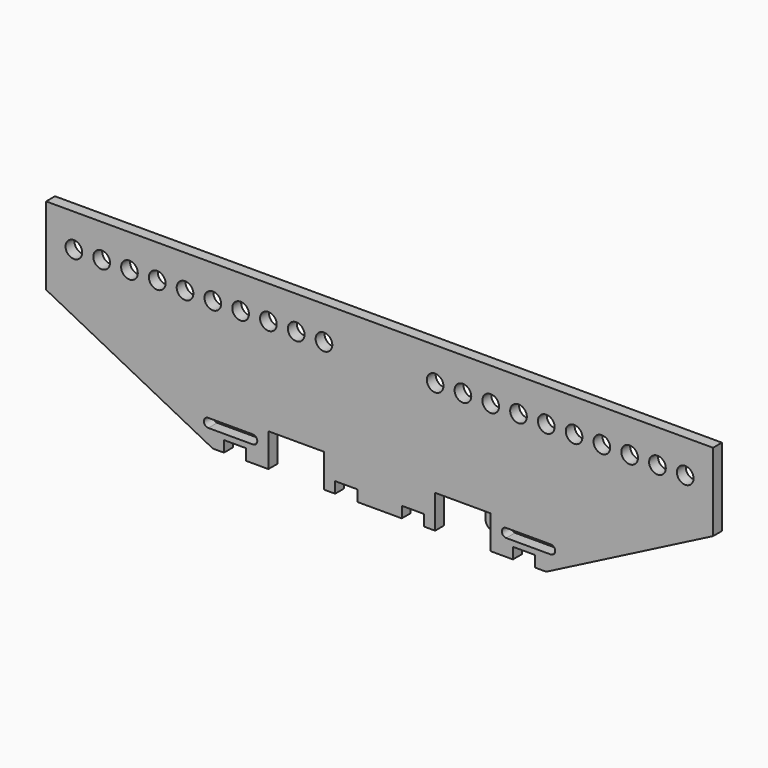
from build123d import *

# Parameters (mm, degrees)
F0_R     = 7.5
F1_DEPTH = 10
F2_R     = 4
F3_DEPTH = 10
F4_R     = 8


with BuildPart() as f1:
    # F0 (on Front) → F1 (new body)
    with BuildSketch(Plane.XZ):
        Polygon((-19.999999, 0), (0, 0), (19.999999, 0), (19.999999, 10), (39.999999, 10), (39.999999, 0), (49.999999, 0), (49.999999, 30), (99.999999, 30), (99.999999, 0), (119.999999, 0), (119.999999, 10), (139.999999, 10), (139.999999, 0), (149.999999, 0), (300, 76.994322), (300, 146.994322), (0, 146.994322), (-300, 146.994322), (-300, 76.994322), (-149.999999, 0), (-139.999999, 0), (-139.999999, 10), (-119.999999, 10), (-119.999999, 0), (-99.999999, 0), (-99.999999, 30), (-49.999999, 30), (-49.999999, 0), (-39.999999, 0), (-39.999999, 10), (-19.999999, 10), align=None)
        with BuildLine():
            Line((-113.999999, 15), (-153.999999, 15))
            ThreePointArc((-153.999999, 15), (-157.999999, 19), (-153.999999, 23))
            Line((-153.999999, 23), (-113.999999, 23))
            ThreePointArc((-113.999999, 23), (-109.999999, 19), (-113.999999, 15))
        make_face(mode=Mode.SUBTRACT)
        with BuildLine():
            Line((113.999999, 23), (153.999999, 23))
            ThreePointArc((153.999999, 23), (157.999999, 19), (153.999999, 15))
            Line((153.999999, 15), (113.999999, 15))
            ThreePointArc((113.999999, 15), (109.999999, 19), (113.999999, 23))
        make_face(mode=Mode.SUBTRACT)
        with Locations((-275, 116.994322)):
            Circle(F0_R, mode=Mode.SUBTRACT)
        with Locations((-250, 116.994322)):
            Circle(F0_R, mode=Mode.SUBTRACT)
        with Locations((-225, 116.994322)):
            Circle(F0_R, mode=Mode.SUBTRACT)
        with Locations((-200, 116.994322)):
            Circle(F0_R, mode=Mode.SUBTRACT)
        with Locations((-175, 116.994322)):
            Circle(F0_R, mode=Mode.SUBTRACT)
        with Locations((-150, 116.994322)):
            Circle(F0_R, mode=Mode.SUBTRACT)
        with Locations((-125, 116.994322)):
            Circle(F0_R, mode=Mode.SUBTRACT)
        with Locations((-100, 116.994322)):
            Circle(F0_R, mode=Mode.SUBTRACT)
        with Locations((-75, 116.994322)):
            Circle(F0_R, mode=Mode.SUBTRACT)
        with Locations((-50, 116.994322)):
            Circle(F0_R, mode=Mode.SUBTRACT)
        with Locations((50, 116.994322)):
            Circle(F0_R, mode=Mode.SUBTRACT)
        with Locations((75, 116.994322)):
            Circle(F0_R, mode=Mode.SUBTRACT)
        with Locations((100, 116.994322)):
            Circle(F0_R, mode=Mode.SUBTRACT)
        with Locations((125, 116.994322)):
            Circle(F0_R, mode=Mode.SUBTRACT)
        with Locations((150, 116.994322)):
            Circle(F0_R, mode=Mode.SUBTRACT)
        with Locations((175, 116.994322)):
            Circle(F0_R, mode=Mode.SUBTRACT)
        with Locations((200, 116.994322)):
            Circle(F0_R, mode=Mode.SUBTRACT)
        with Locations((225, 116.994322)):
            Circle(F0_R, mode=Mode.SUBTRACT)
        with Locations((250, 116.994322)):
            Circle(F0_R, mode=Mode.SUBTRACT)
        with Locations((275, 116.994322)):
            Circle(F0_R, mode=Mode.SUBTRACT)
    extrude(amount=F1_DEPTH)


with BuildPart() as f3:
    # F2 (on face) → F3 (new body)
    with BuildSketch(Plane(origin=(0, 0, 0), x_dir=(-1, 0, 0), z_dir=(0, 1, 0))):
        Polygon((-92.999727, 29.502576), (-147.239616, 29.502576), (-147.239616, 9.502576), (-87.239616, 9.502576), (-87.239616, 27.14978), align=None)
        with Locations((-137.239616, 19.502576)):
            Circle(F2_R, mode=Mode.SUBTRACT)
        with Locations((-107.239616, 19.502576)):
            Circle(F2_R, mode=Mode.SUBTRACT)
    extrude(amount=F3_DEPTH)

    # F4
    f4_edges = [f3.edges().sort_by_distance(p)[0] for p in [
        (147.239616, 5, 29.502576),
        (147.239616, 5, 9.502576),
        (87.239616, 5, 9.502576),
    ]]
    fillet(f4_edges, radius=F4_R)


solid = Compound([f1.part, f3.part])
